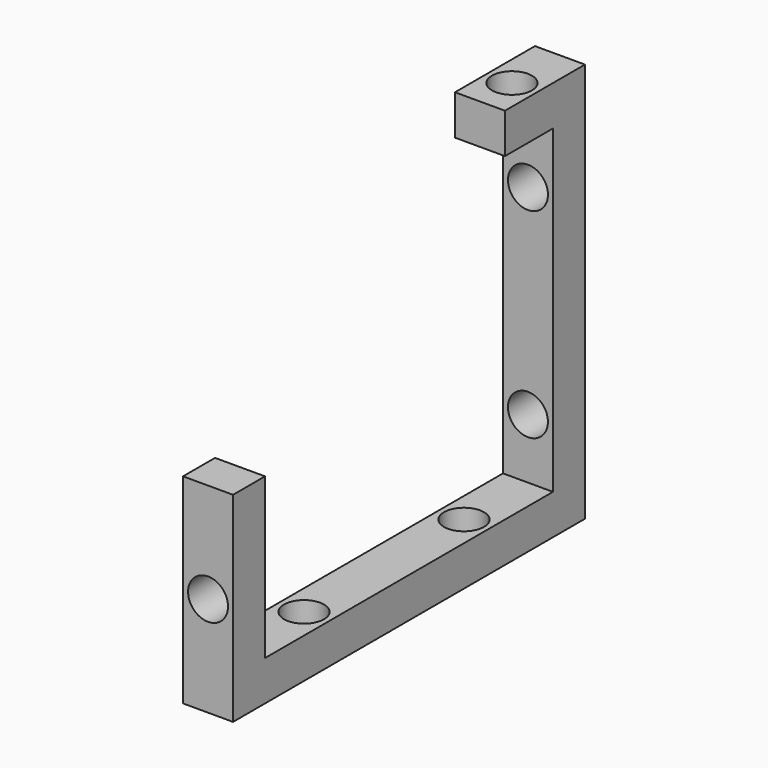
from build123d import *

# Parameters (mm, degrees)
F1_DEPTH = 2.5
F2_R     = 2
F3_DEPTH = 5
F4_R     = 2
F5_DEPTH = 5
F6_R     = 2
F7_DEPTH = 25
F8_R     = 2
F9_DEPTH = 5


with BuildPart() as f1:
    # F0 (on Right) → F1 (new body, symmetric)
    with BuildSketch(Plane.YZ):
        Polygon((-22, -20), (22, -20), (22, 20), (12, 20), (12, 16), (18, 16), (18, -16), (-18, -16), (-18, 0), (-22, 0), align=None)
    extrude(amount=F1_DEPTH, both=True)

    # F2 (on face) → F3 (cut)
    with BuildSketch(Plane.XY.offset(20)):
        with Locations((0, 16)):
            Circle(F2_R)
    extrude(amount=-F3_DEPTH, mode=Mode.SUBTRACT)

    # F4 (on face) → F5 (cut)
    with BuildSketch(Plane(origin=(0, 0, -20), x_dir=(1, 0, 0), z_dir=(0, 0, -1))):
        with Locations((0, 10)):
            Circle(F4_R)
        with Locations((0, -10)):
            Circle(F4_R)
    extrude(amount=-F5_DEPTH, mode=Mode.SUBTRACT)

    # F6 (on face) → F7 (cut)
    with BuildSketch(Plane.XZ.offset(22)):
        with Locations((0, -10)):
            Circle(F6_R)
    extrude(amount=-F7_DEPTH, mode=Mode.SUBTRACT)

    # F8 (on face) → F9 (cut)
    with BuildSketch(Plane(origin=(0, 22, 0), x_dir=(-1, 0, 0), z_dir=(0, 1, 0))):
        with Locations((0, -10)):
            Circle(F8_R)
        with Locations((0, 10)):
            Circle(F8_R)
    extrude(amount=-F9_DEPTH, mode=Mode.SUBTRACT)


solid = f1.part
